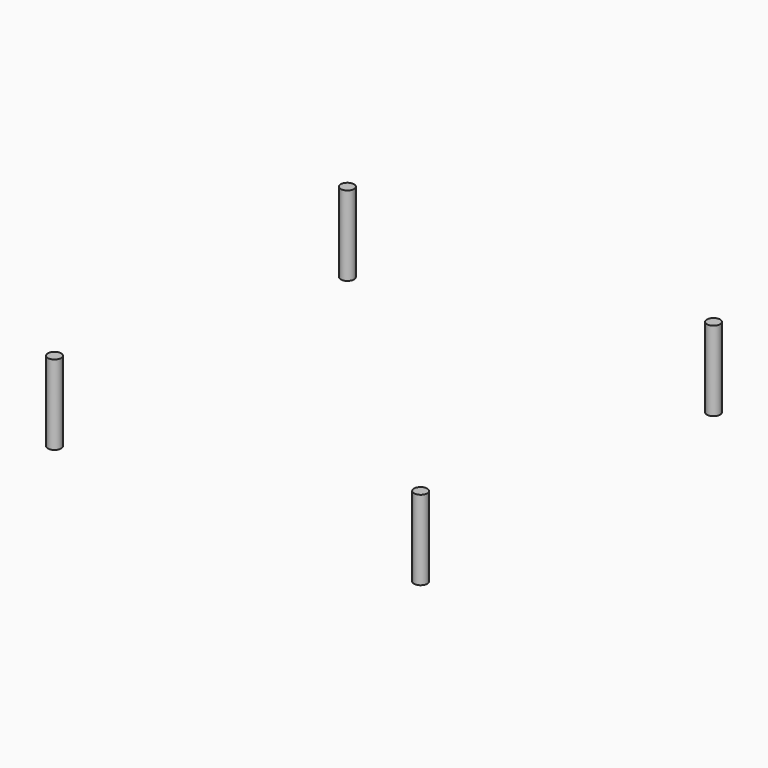
from build123d import *

# Parameters (mm, degrees)
CYLINDER018_R               = 1.65
CYLINDER018_DEPTH           = 20
CYLINDER018_ROLL_ANGLE      = 90
CYLINDER018_PITCH_ANGLE     = -45
CYLINDER019_R               = 1.65
CYLINDER019_DEPTH           = 20
CYLINDER019_ROLL_ANGLE      = 90
CYLINDER019_PITCH_ANGLE     = 45
CYLINDER020_R               = 1.65
CYLINDER020_DEPTH           = 20
CYLINDER020_ROLL_ANGLE      = -90
CYLINDER020_PITCH_ANGLE     = -45
CYLINDER020_PLACEMENT_ANGLE = 180
CYLINDER017_R               = 1.65
CYLINDER017_DEPTH           = 20
CYLINDER017_ROLL_ANGLE      = 90
CYLINDER017_PITCH_ANGLE     = 45
FUSION188_PLACEMENT_ANGLE   = 90


with BuildPart() as cylinder018:
    # Cylinder018 → Cylinder018 (new body)
    with BuildSketch(Plane.XY):
        Circle(CYLINDER018_R)
    extrude(amount=CYLINDER018_DEPTH)


with BuildPart() as cylinder018_1:
    # Cylinder018 roll: moved
    add(cylinder018.part.rotate(Axis((0, 0, 0), (1, 0, 0)), CYLINDER018_ROLL_ANGLE))


with BuildPart() as cylinder018_2:
    # Cylinder018 pitch: moved
    add(cylinder018_1.part.rotate(Axis((0, 0, 0), (0, 1, 0)), CYLINDER018_PITCH_ANGLE))


with BuildPart() as cylinder018_3:
    # Cylinder018 placement: moved
    add(cylinder018_2.part.moved(Location((-45.961941, 57, 45.961941))))


with BuildPart() as cylinder019:
    # Cylinder019 → Cylinder019 (new body)
    with BuildSketch(Plane.XY):
        Circle(CYLINDER019_R)
    extrude(amount=CYLINDER019_DEPTH)


with BuildPart() as cylinder019_1:
    # Cylinder019 roll: moved
    add(cylinder019.part.rotate(Axis((0, 0, 0), (1, 0, 0)), CYLINDER019_ROLL_ANGLE))


with BuildPart() as cylinder019_2:
    # Cylinder019 pitch: moved
    add(cylinder019_1.part.rotate(Axis((0, 0, 0), (0, 1, 0)), CYLINDER019_PITCH_ANGLE))


with BuildPart() as cylinder019_3:
    # Cylinder019 placement: moved
    add(cylinder019_2.part.moved(Location((45.961941, 57, -45.961941))))


with BuildPart() as cylinder020:
    # Cylinder020 → Cylinder020 (new body)
    with BuildSketch(Plane.XY):
        Circle(CYLINDER020_R)
    extrude(amount=CYLINDER020_DEPTH)


with BuildPart() as cylinder020_1:
    # Cylinder020 roll: moved
    add(cylinder020.part.rotate(Axis((0, 0, 0), (1, 0, 0)), CYLINDER020_ROLL_ANGLE))


with BuildPart() as cylinder020_2:
    # Cylinder020 pitch: moved
    add(cylinder020_1.part.rotate(Axis((0, 0, 0), (0, 1, 0)), CYLINDER020_PITCH_ANGLE))


with BuildPart() as cylinder020_3:
    # Cylinder020 placement: moved
    add(cylinder020_2.part.moved(Location((-45.961941, 57, -45.961941))).rotate(Axis((-45.961941, 57, -45.961941), (0, 0, 1)), CYLINDER020_PLACEMENT_ANGLE))


with BuildPart() as obj1:
    # Cylinder017 → Cylinder017 (new body)
    with BuildSketch(Plane.XY):
        Circle(CYLINDER017_R)
    extrude(amount=CYLINDER017_DEPTH)


with BuildPart() as obj1_1:
    # Cylinder017 roll: moved
    add(obj1.part.rotate(Axis((0, 0, 0), (1, 0, 0)), CYLINDER017_ROLL_ANGLE))


with BuildPart() as obj1_2:
    # Cylinder017 pitch: moved
    add(obj1_1.part.rotate(Axis((0, 0, 0), (0, 1, 0)), CYLINDER017_PITCH_ANGLE))


with BuildPart() as obj1_3:
    # Cylinder017 placement: moved
    add(obj1_2.part.moved(Location((45.961941, 57, 45.961941))))

    # Fusion188: union Cylinder018, Cylinder019, Cylinder020
    add(cylinder018_3.part)
    add(cylinder019_3.part)
    add(cylinder020_3.part)


with BuildPart() as obj1_4:
    # Fusion188 placement: moved
    add(obj1_3.part.moved(Location((0, 0, 36))).rotate(Axis((0, 0, 36), (1, 0, 0)), FUSION188_PLACEMENT_ANGLE))


solid = obj1_4.part
